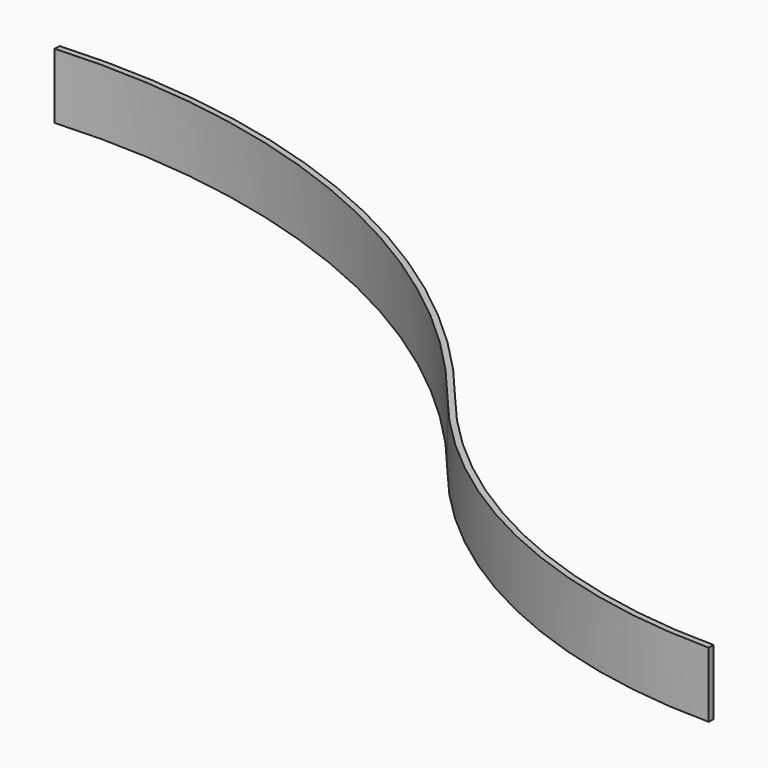
from build123d import *

# Parameters (mm, degrees)
F1_DEPTH = 279.4


with BuildPart() as f1:
    # F0 (on Top) → F1 (new body)
    with BuildSketch(Plane.XY):
        with BuildLine():
            Line((214.9397816719, -461.2037903767), (232.900293914, -443.2432781346))
            ThreePointArc((232.900293914, -443.2432781346), (145.5939633483, -350.9732813972), (63.5179117588, -254.0213891504))
            ThreePointArc((63.5179117588, -254.0213891504), (-1101.7312539149, 642.9652273287), (-2549.4558180108, 900.8105196245))
            Line((-2549.4558180108, 900.8105196245), (-2551.8841937865, 875.2015777751))
            ThreePointArc((-2551.8841937865, 875.2015777751), (-1113.8523404134, 620.5514371442), (43.6857709845, -269.8910517905))
            ThreePointArc((43.6857709845, -269.8910517905), (126.6687402713, -367.9142356644), (214.9397816719, -461.2037903768))
        make_face()
        with BuildLine():
            Line((1858.3266518276, -1141.9169202211), (1858.3266518276, -1116.5169202211))
            ThreePointArc((1858.3266518276, -1116.5169202211), (978.6522458499, -941.5388016048), (232.900293914, -443.2432781346))
            Line((232.900293914, -443.2432781346), (214.9397816719, -461.2037903767))
            ThreePointArc((214.9397816719, -461.2037903768), (968.9320866679, -965.0053417306), (1858.3266518276, -1141.9169202211))
        make_face()
    extrude(amount=F1_DEPTH)


solid = f1.part
